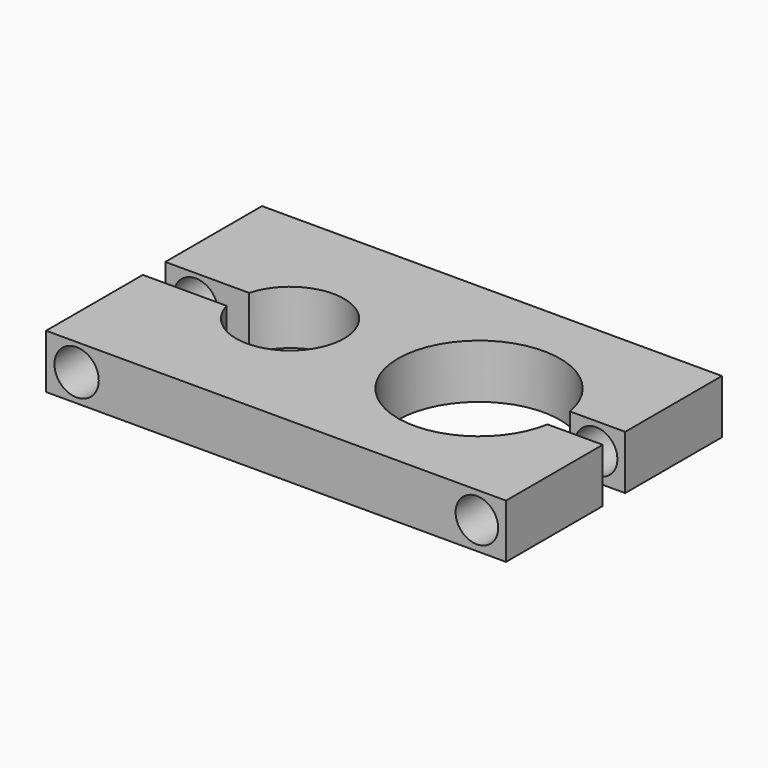
from build123d import *

# Parameters (mm, degrees)
F1_DEPTH = 6.35
F2_R     = 2.607483
F2_R_2   = 2.505418
F3_DEPTH = 34.29


with BuildPart() as f1:
    # F0 (on Top) → F1 (new body)
    with BuildSketch(Plane.XY):
        with BuildLine():
            Line((27.051, 15.875), (-27.051, 15.875))
            Line((-27.051, 15.875), (-27.051, 1.651))
            Line((-27.051, 1.651), (-17.180615, 1.651))
            ThreePointArc((-17.180615, 1.651), (-4.699, 0), (-17.180615, -1.651))
            Line((-17.180615, -1.651), (-27.051, -1.651))
            Line((-27.051, -1.651), (-27.051, -15.875))
            Line((-27.051, -15.875), (27.051, -15.875))
            Line((27.051, -15.875), (27.051, -1.651))
            Line((27.051, -1.651), (20.556822, -1.651))
            ThreePointArc((20.556822, -1.651), (1.651, 0), (20.556822, 1.651))
            Line((20.556822, 1.651), (27.051, 1.651))
            Line((27.051, 1.651), (27.051, 15.875))
        make_face()
    extrude(amount=F1_DEPTH)

    # F2 (on face) → F3 (cut)
    with BuildSketch(Plane.XZ.offset(15.875)):
        with Locations((-23.459613, 3.213262)):
            Circle(F2_R)
        with Locations((23.626484, 3.213262)):
            Circle(F2_R_2)
    extrude(amount=-F3_DEPTH, mode=Mode.SUBTRACT)


solid = f1.part
